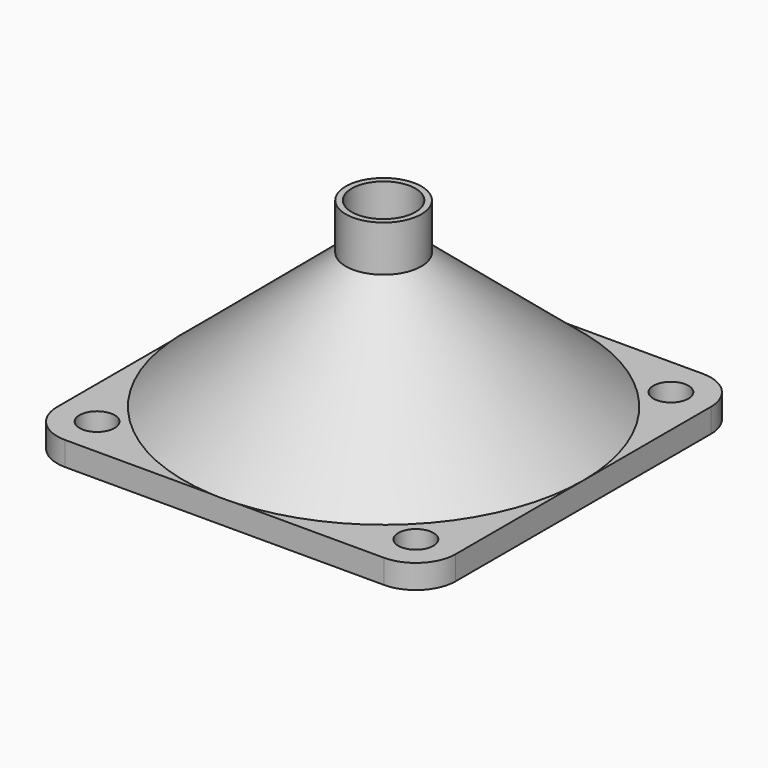
from build123d import *

# Parameters (mm, degrees)
F0_W     = 50
F0_H     = 3
F1_DEPTH = 50
F2_R     = 23
F3_DEPTH = 25
F7_R     = 2.2
F8_DEPTH = 25
F9_R     = 5


with BuildPart() as f1:
    # F0 (on Front) → F1 (new body)
    with BuildSketch(Plane.XZ):
        with Locations((25, 1.5)):
            Rectangle(F0_W, F0_H)
    extrude(amount=-F1_DEPTH)

    # F2 (on face) → F3 (cut)
    with BuildSketch(Plane.XY.offset(3)):
        with Locations((25, 25)):
            Circle(F2_R)
    extrude(amount=-F3_DEPTH, mode=Mode.SUBTRACT)

    # F5 (on offset) → F6 (revolve)
    with BuildSketch(Plane.XZ.offset(-25)):
        Polygon((29.689003, 18.321594), (47.948567, 3), (50, 3), (29.689003, 20.04295), (29.689003, 25.803645), (28.947536, 25.803645), (28.947536, 18.321594), align=None)
    revolve(axis=Axis((24.948567, 25, 14.356404), (0, 0, 1)))

    # F7 (on face) → F8 (cut)
    with BuildSketch(Plane.XY.offset(3)):
        with Locations((45, 45)):
            Circle(F7_R)
        with Locations((45, 5)):
            Circle(F7_R)
        with Locations((5, 5)):
            Circle(F7_R)
        with Locations((5, 45)):
            Circle(F7_R)
    extrude(amount=-F8_DEPTH, mode=Mode.SUBTRACT)

    # F9
    f9_edges = [f1.edges().sort_by_distance(p)[0] for p in [
        (0, 0, 1.5),
        (50, 0, 1.5),
        (50, 50, 1.5),
        (0, 50, 1.5),
    ]]
    fillet(f9_edges, radius=F9_R)


solid = f1.part
